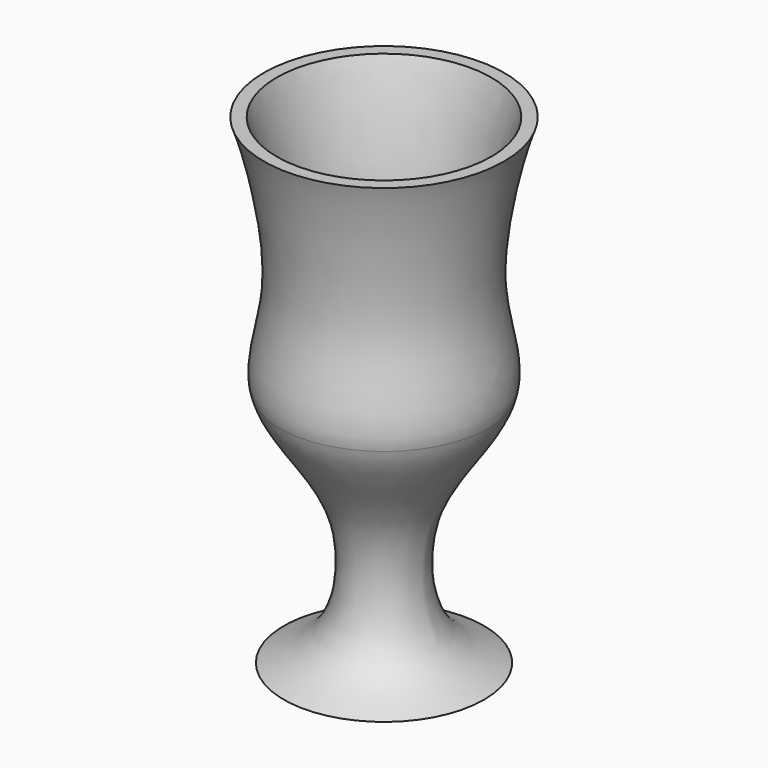
from build123d import *

# Parameters (mm, degrees)
F2_T = -3.81


with BuildPart() as f1:
    # F0 (on Front) → F1 (revolve)
    with BuildSketch(Plane.XZ):
        with BuildLine():
            Line((-2.9951573074, 106.7754722372), (-2.9951573074, 30.5754722372))
            Line((-2.9951573074, 30.5754722372), (30.0248426926, 30.5754722372))
            add(Edge.make_bspline(
                [(35.1048426926, 106.7754722372), (32.9483391915, 101.5926443587), (21.5294493719, 58.8197385465), (32.3306136174, 39.6279871533), (30.0248426926, 30.5754722372)],
                knots=[0, 0, 0, 0, 0.2360344588, 0.4321371478, 0.4321371478, 0.4321371478, 0.4321371478], degree=3))
            Line((35.1048426926, 106.7754722372), (-2.9951573074, 106.7754722372))
        make_face()
    revolve(axis=Axis((-2.9951573074, 0, 68.6754722372), (0, 0, 1)))

    # F2
    f2_openings = [f1.faces().sort_by_distance(p)[0] for p in [
        (-2.995157, 0, 106.775472),
    ]]
    offset(amount=F2_T, openings=f2_openings)

    # F0 (on Front) → F3 (revolve)
    with BuildSketch(Plane.XZ):
        with BuildLine():
            Line((30.0248426926, 30.5754722372), (-2.9951573074, 30.5754722372))
            Line((-2.9951573074, 30.5754722372), (-2.9951573074, -45.6245277628))
            Line((-2.9951573074, -45.6245277628), (28.7548426926, -45.6245277628))
            add(Edge.make_bspline(
                [(30.0248426926, 30.5754722372), (27.5291324555, 20.7772507814), (6.462377675, 1.1334030314), (9.1514726232, -35.7913107682), (20.4815940881, -42.0784909642), (28.7548426926, -45.6245277628)],
                knots=[0.4321371478, 0.4321371478, 0.4321371478, 0.4321371478, 0.6443939177, 0.8408968049, 1, 1, 1, 1], degree=3))
        make_face()
    revolve(axis=Axis((-2.9951573074, 0, -7.5245277628), (0, 0, -1)))


solid = f1.part
